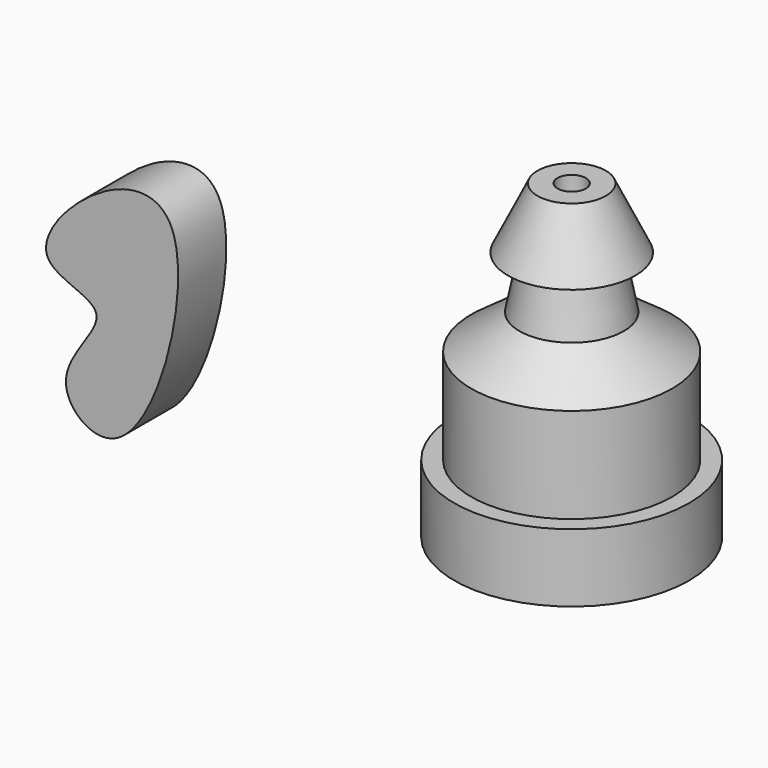
from build123d import *

# Parameters (mm, degrees)
F3_DEPTH = 25


with BuildPart() as f1:
    # F0 (on Front) → F1 (revolve)
    with BuildSketch(Plane.XZ):
        Polygon((133.588925004, -28.271952644), (133.588925004, -11.5500353277), (133.588925004, 0), (126.5110820532, 0), (126.5110820532, 39.5439080894), (106.4571738243, 54.0357716382), (102.5250330567, 74.134208262), (111.1757308245, 75.826666337), (98.9860966802, 101.0307967663), (90.7058939338, 101.0307967663), (90.7058939338, -28.271952644), align=None)
    revolve(axis=Axis((84.8039835691, 0, 30.1330666989), (0, 0, -1)))


with BuildPart() as f3:
    # F2 (on Front) → F3 (new body)
    with BuildSketch(Plane.XZ):
        with BuildLine():
            add(Edge.make_bspline(
                [(-88.9386460185, 51.788315177), (-102.8701433255, 44.2630872752), (-127.9251567714, 15.1999355823), (-77.8654309998, 9.9922072843), (-117.7653083375, -22.2909268749), (-73.6634636246, -58.4448014335), (-45.1539672063, 58.2893453149), (-77.1683107455, 58.1461712966), (-88.9386460185, 51.788315177)],
                knots=[0, 0, 0, 0, 0.1730029282, 0.3073507534, 0.4610972034, 0.5982620212, 0.8538346293, 1, 1, 1, 1], degree=3))
        make_face()
    extrude(amount=F3_DEPTH)


solid = Compound([f1.part, f3.part])
